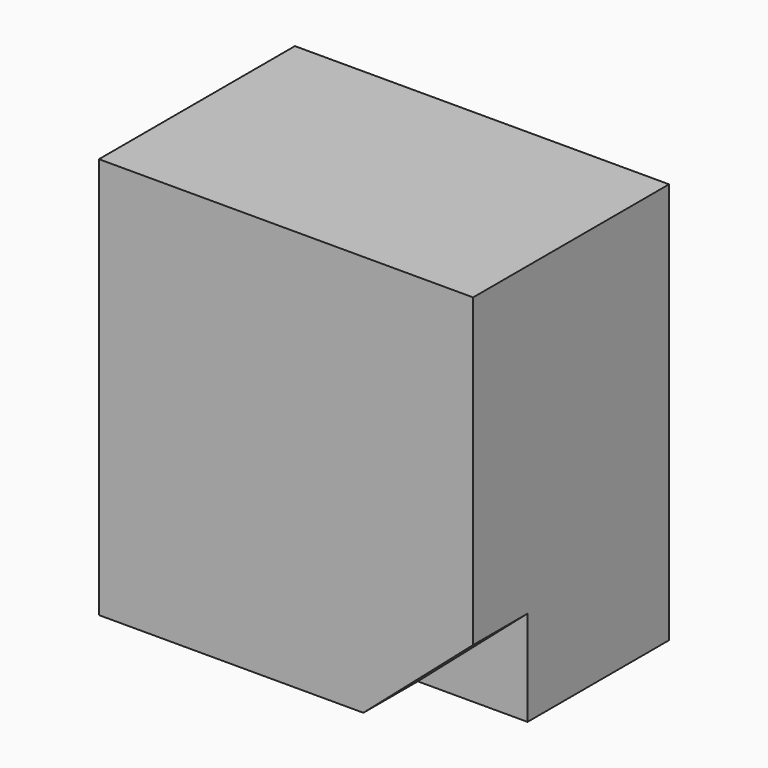
from build123d import *

# Parameters (mm, degrees)
F0_W     = 2.794
F0_H     = 2.9972
F1_DEPTH = 1.8288
F3_DEPTH = 0.508


with BuildPart() as f1:
    # F0 (on Front) → F1 (new body)
    with BuildSketch(Plane.XZ):
        Rectangle(F0_W, F0_H)
    extrude(amount=F1_DEPTH)

    # F2 (on face) → F3 (cut)
    with BuildSketch(Plane.XZ.offset(1.8288)):
        Polygon((1.504209, -0.693182), (0.487083, -1.577176), (1.504209, -1.586379), align=None)
    extrude(amount=-F3_DEPTH, mode=Mode.SUBTRACT)


solid = f1.part
